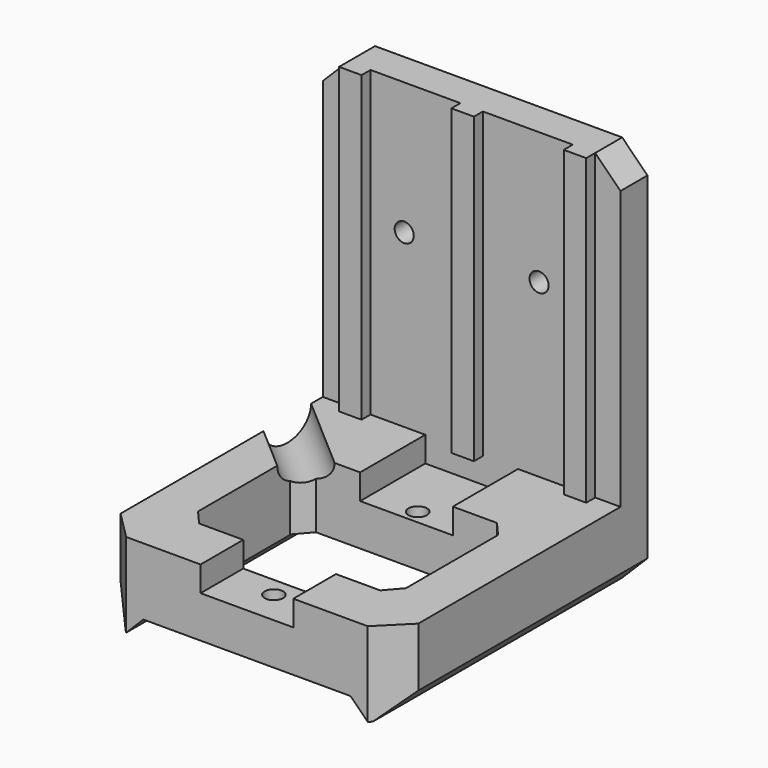
from build123d import *

# Parameters (mm, degrees)
EXTRUDE_DEPTH                     = 6
EXTRUDE_ONTO_SKETCH039_ROLL_ANGLE = 90
SKETCH041_R                       = 1.7
POCKET009_DEPTH                   = 6
PAD006_DEPTH                      = 50
CHAMFER009_SIZE                   = 5
SKETCH043_W                       = 4
SKETCH043_H                       = 2
PAD007_DEPTH                      = 54
POCKET010_DEPTH                   = 50
POCKET011_DEPTH                   = 12
SKETCH047_W                       = 16.5
SKETCH047_H                       = 4.5
POCKET012_DEPTH                   = 50
SKETCH048_R                       = 1.65
POCKET013_DEPTH                   = 10
POCKET014_DEPTH                   = 16


with BuildPart() as part:
    # Sketch039 as drawn → Extrude (new)
    with BuildSketch(Plane.XY):
        Polygon((44.672363, 146.349121), (88.672363, 146.349121), (93.172363, 141.849121), (93.172363, 81.849121), (88.672363, 77.349121), (44.672363, 77.349121), (40.172363, 81.849121), (40.172363, 141.849121), align=None)
    extrude(amount=EXTRUDE_DEPTH)


with BuildPart() as part_1:
    # Extrude onto Sketch039 roll: moved
    add(part.part.rotate(Axis((0, 0, 0), (1, 0, 0)), EXTRUDE_ONTO_SKETCH039_ROLL_ANGLE))


with BuildPart() as part_2:
    # Extrude onto Sketch039 placement: moved
    add(part_1.part.moved(Location((-7, -30, 20))))

    # Sketch041 → Pocket009 (cut)
    with BuildSketch(Plane.XZ.offset(36)):
        with Locations((47.672363, 142.849121)):
            Circle(SKETCH041_R)
        with Locations((71.672363, 142.849121)):
            Circle(SKETCH041_R)
    extrude(amount=-POCKET009_DEPTH, mode=Mode.SUBTRACT)

    # Sketch042 → Pad006 (new body)
    with BuildSketch(Plane.XZ.offset(36)):
        Polygon((33.172363, 112.349121), (86.172363, 112.349121), (86.172363, 101.849121), (81.672363, 97.349121), (37.672363, 97.349121), (33.172363, 101.849121), align=None)
    extrude(amount=PAD006_DEPTH)

    # Chamfer009
    chamfer009_edges = [part_2.edges().sort_by_distance(p)[0] for p in [
        (86.172363, -86, 107.099121),
        (33.172363, -86, 107.099121),
    ]]
    chamfer(chamfer009_edges, length=CHAMFER009_SIZE)

    # Sketch043 → Pad007 (new body)
    with BuildSketch(Plane.XY.offset(166.349121)):
        with Locations((39.672363, -37)):
            Rectangle(SKETCH043_W, SKETCH043_H)
        with Locations((79.672363, -37)):
            Rectangle(SKETCH043_W, SKETCH043_H)
        with Locations((59.672363, -37)):
            Rectangle(SKETCH043_W, SKETCH043_H)
    extrude(amount=-PAD007_DEPTH)

    # Sketch044 → Pocket010 (cut)
    with BuildSketch(Plane.XZ.offset(86)):
        Polygon((38.172363, 97.349121), (41.233486, 100.410242), (78.111243, 100.410242), (81.172363, 97.349121), align=None)
    extrude(amount=-POCKET010_DEPTH, mode=Mode.SUBTRACT)

    # Sketch046 → Pocket011 (cut)
    with BuildSketch(Plane.XY.offset(112.349121)):
        Polygon((41.172363, -73.752892), (41.172363, -53.247108), (43.556055, -50.5), (75.788672, -50.5), (78.172363, -53.247108), (78.172363, -73.752892), (75.788672, -76.5), (43.556055, -76.5), align=None)
    extrude(amount=-POCKET011_DEPTH, mode=Mode.SUBTRACT)

    # Sketch047 → Pocket012 (cut)
    with BuildSketch(Plane.XZ.offset(86)):
        with Locations((59.672363, 110.099121)):
            Rectangle(SKETCH047_W, SKETCH047_H)
    extrude(amount=-POCKET012_DEPTH, mode=Mode.SUBTRACT)

    # Sketch048 → Pocket013 (cut)
    with BuildSketch(Plane.XY.offset(107.849121)):
        with Locations((59.672363, -80)):
            Circle(SKETCH048_R)
        with Locations((59.672363, -48)):
            Circle(SKETCH048_R)
    extrude(amount=-POCKET013_DEPTH, mode=Mode.SUBTRACT)

    # Sketch049 → Pocket014 (cut, symmetric)
    with BuildSketch(Plane(origin=(49.845623, -43.251529, 0), x_dir=(0.65538, 0.755299, 0), z_dir=(0.755299, -0.65538, 0))):
        with BuildLine():
            ThreePointArc((-15.415378, 112.349121), (-11.415378, 108.349121), (-7.415378, 112.349121))
            Line((-15.415378, 112.349121), (-7.415378, 112.349121))
        make_face()
    extrude(amount=POCKET014_DEPTH, both=True, mode=Mode.SUBTRACT)


solid = part_2.part
